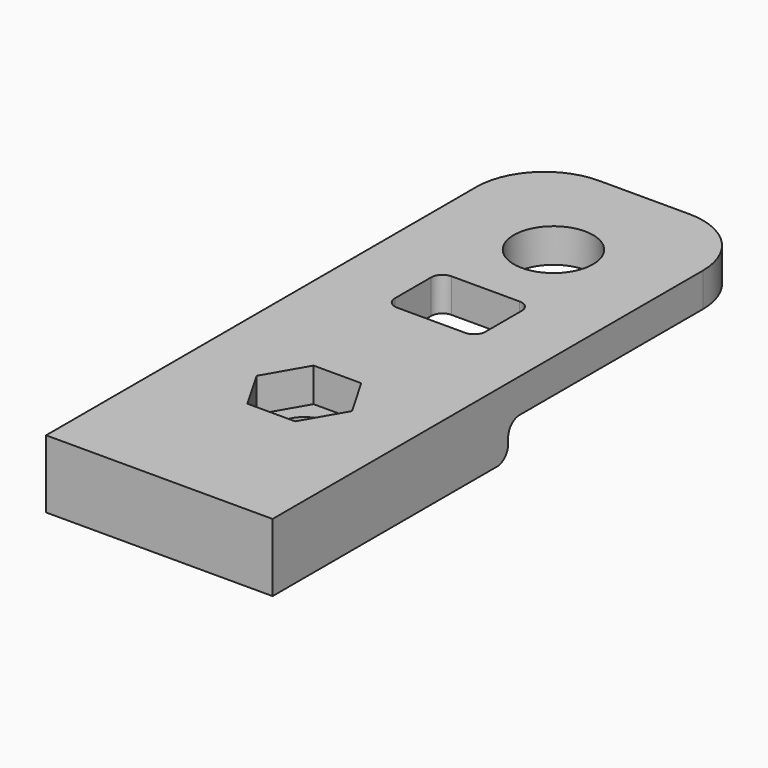
from build123d import *

# Parameters (mm, degrees)
SKETCH_W        = 20
SKETCH_H        = 53.5
PAD_DEPTH       = 3
SKETCH001_W     = 20
SKETCH001_H     = 26
PAD001_DEPTH    = 3
FILLET_R        = 1.25
FILLET001_R     = 6
SKETCH002_R     = 2.25
POCKET_DEPTH    = 6
SKETCH003_R     = 3.5
SKETCH003_W     = 8
SKETCH003_H     = 6
POCKET001_DEPTH = 6
FILLET002_R     = 1
POCKET002_DEPTH = 3


with BuildPart() as part:
    # Sketch → Pad (new body)
    with BuildSketch(Plane.XY):
        with Locations((0, 26.75)):
            Rectangle(SKETCH_W, SKETCH_H)
    extrude(amount=PAD_DEPTH)

    # Sketch001 (on Face5 of Pad) → Pad001 (join)
    with BuildSketch(Plane(origin=(0, 0, 0), x_dir=(1, 0, 0), z_dir=(0, 0, -1))):
        with Locations((0, -13)):
            Rectangle(SKETCH001_W, SKETCH001_H)
    extrude(amount=PAD001_DEPTH)

    # Fillet
    fillet_edges = [part.edges().sort_by_distance(p)[0] for p in [
        (0, 26, 0),
        (0, 26, -3),
    ]]
    fillet(fillet_edges, radius=FILLET_R)

    # Fillet001
    fillet001_edges = [part.edges().sort_by_distance(p)[0] for p in [
        (10, 53.5, 1.5),
        (-10, 53.5, 1.5),
    ]]
    fillet(fillet001_edges, radius=FILLET001_R)

    # Sketch002 (on Face12 of Fillet001) → Pocket (cut)
    with BuildSketch(Plane(origin=(0, 0, -3), x_dir=(1, 0, 0), z_dir=(0, 0, -1))):
        with Locations((0, -16)):
            Circle(SKETCH002_R)
    extrude(amount=-POCKET_DEPTH, mode=Mode.SUBTRACT)

    # Sketch003 (on Face8 of Pocket) → Pocket001 (cut)
    with BuildSketch(Plane.XY.offset(3)):
        with Locations((0, 43.5)):
            Circle(SKETCH003_R)
        with Locations((0, 33)):
            Rectangle(SKETCH003_W, SKETCH003_H)
    extrude(amount=-POCKET001_DEPTH, mode=Mode.SUBTRACT)

    # Fillet002
    fillet002_edges = [part.edges().sort_by_distance(p)[0] for p in [
        (-4, 36, 1.5),
        (4, 36, 1.5),
        (4, 30, 1.5),
        (-4, 30, 1.5),
    ]]
    fillet(fillet002_edges, radius=FILLET002_R)

    # Sketch004 (on Face17 of Fillet002) → Pocket002 (cut)
    with BuildSketch(Plane.XY.offset(3)):
        Polygon((2.107328, 19.65), (-2.107328, 19.65), (-4.214657, 16), (-2.107328, 12.35), (2.107328, 12.35), (4.214657, 16), align=None)
    extrude(amount=-POCKET002_DEPTH, mode=Mode.SUBTRACT)


solid = part.part
